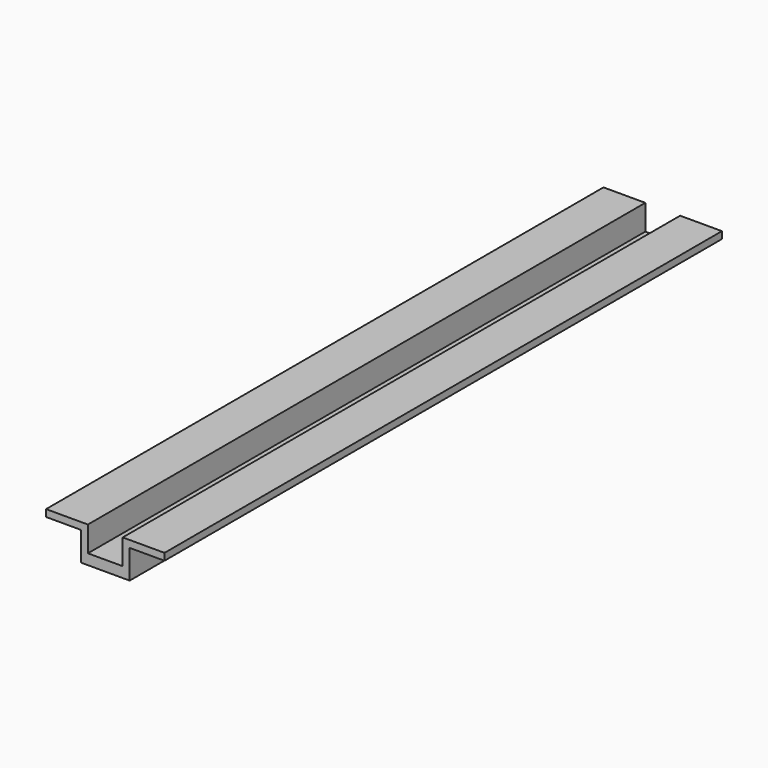
from build123d import *

# Parameters (mm, degrees)
F0_W     = 50
F0_H     = 10
F0_H_2   = 15
F1_DEPTH = 1000


with BuildPart() as f1:
    # F0 (on Front) → F1 (new body)
    with BuildSketch(Plane.XZ):
        with Locations((-60, 38.86711)):
            Rectangle(F0_W, F0_H)
        Polygon((-25, 43.86711), (-35, 43.86711), (-35, 33.86711), (-35, -7.5), (-25, -7.5), (-25, 7.5), align=None)
        Rectangle(F0_W, F0_H_2)
        Polygon((25, 43.86711), (25, 7.5), (25, -7.5), (35, -7.5), (35, 33.86711), (35, 43.86711), align=None)
        with Locations((60, 38.86711)):
            Rectangle(F0_W, F0_H)
    extrude(amount=F1_DEPTH)


solid = f1.part
